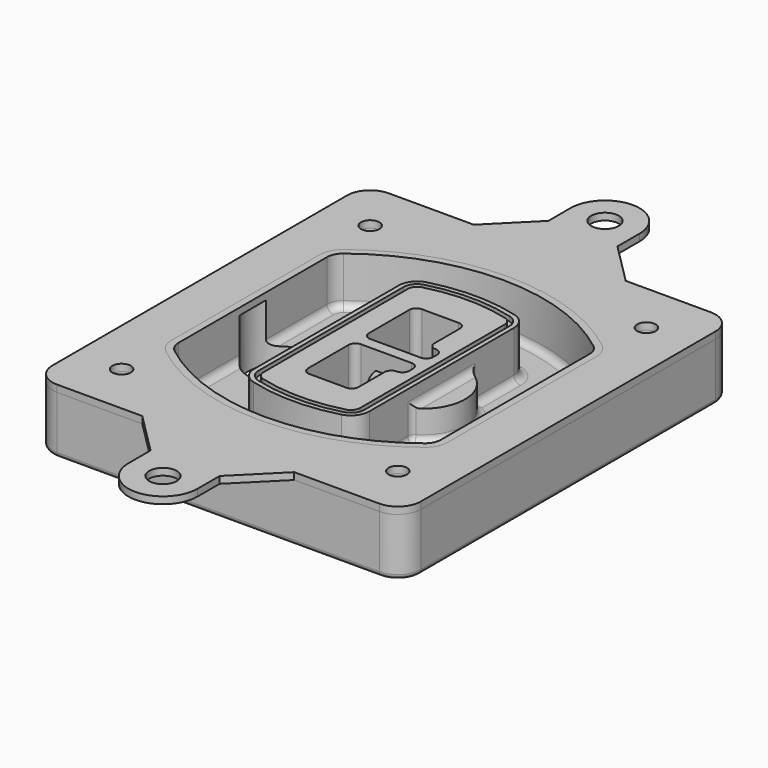
from build123d import *

# Parameters (mm, degrees)
F0_R      = 4
F1_DEPTH  = 25
F2_DEPTH  = 3
F3_DEPTH  = 18
F5_DEPTH  = 21
F6_DEPTH  = 2
F8_DEPTH  = 20
F9_DEPTH  = 16
F10_DEPTH = 25
F7_R      = 6
F7_R_2    = 4
F12_DEPTH = 6
F13_DEPTH = 9
F14_R     = 3
F15_R     = 2
F16_R     = 6
F16_R_2   = 4
F17_DEPTH = 3


with BuildPart() as f1:
    # F0 (on Top) → F1 (new body)
    with BuildSketch(Plane.XY):
        with BuildLine():
            ThreePointArc((-80, -80), (-77.0710678119, -87.0710678119), (-70, -90))
            Line((-70, -90), (70, -90))
            ThreePointArc((70, -90), (77.0710678119, -87.0710678119), (80, -80))
            Line((80, -80), (80, 80))
            ThreePointArc((80, 80), (77.0710678119, 87.0710678119), (70, 90))
            Line((70, 90), (-70, 90))
            ThreePointArc((-70, 90), (-77.0710678119, 87.0710678119), (-80, 80))
            Line((-80, 80), (-80, -80))
        make_face()
        with Locations((-60, -67.5)):
            Circle(F0_R, mode=Mode.SUBTRACT)
        with Locations((60, -67.5)):
            Circle(F0_R, mode=Mode.SUBTRACT)
        with Locations((-60, 67.5)):
            Circle(F0_R, mode=Mode.SUBTRACT)
        with BuildLine():
            ThreePointArc((-64, 40.2934422872), (-62.5820384798, 46.4328484224), (-58.6153846154, 51.3286200352))
            ThreePointArc((-58.6153846154, 51.3286200352), (0, 71.5), (58.6153846154, 51.3286200352))
            ThreePointArc((58.6153846154, 51.3286200352), (62.5820384798, 46.4328484224), (64, 40.2934422872))
            Line((64, 40.2934422872), (64, -40.2934422872))
            ThreePointArc((64, -40.2934422872), (62.5820384798, -46.4328484224), (58.6153846154, -51.3286200352))
            ThreePointArc((58.6153846154, -51.3286200352), (0, -71.5), (-58.6153846154, -51.3286200352))
            ThreePointArc((-58.6153846154, -51.3286200352), (-62.5820384798, -46.4328484224), (-64, -40.2934422872))
            Line((-64, -40.2934422872), (-64, 40.2934422872))
        make_face(mode=Mode.SUBTRACT)
        with Locations((60, 67.5)):
            Circle(F0_R, mode=Mode.SUBTRACT)
        with BuildLine():
            ThreePointArc((58.6153846154, 51.3286200352), (0, 71.5), (-58.6153846154, 51.3286200352))
            ThreePointArc((-58.6153846154, 51.3286200352), (-62.5820384798, 46.4328484224), (-64, 40.2934422872))
            Line((-64, 40.2934422872), (-64, -40.2934422872))
            ThreePointArc((-64, -40.2934422872), (-62.5820384798, -46.4328484224), (-58.6153846154, -51.3286200352))
            ThreePointArc((-58.6153846154, -51.3286200352), (0, -71.5), (58.6153846154, -51.3286200352))
            ThreePointArc((58.6153846154, -51.3286200352), (62.5820384798, -46.4328484224), (64, -40.2934422872))
            Line((64, -40.2934422872), (64, 40.2934422872))
            ThreePointArc((64, 40.2934422872), (62.5820384798, 46.4328484224), (58.6153846154, 51.3286200352))
        make_face()
        with BuildLine():
            Line((-60, -40.2934422872), (-60, 40.2934422872))
            ThreePointArc((-60, 40.2934422872), (-58.9871703427, 44.6787323838), (-56.1538461538, 48.1757121072))
            ThreePointArc((-56.1538461538, 48.1757121072), (0, 67.5), (56.1538461538, 48.1757121072))
            ThreePointArc((56.1538461538, 48.1757121072), (58.9871703427, 44.6787323838), (60, 40.2934422872))
            Line((60, 40.2934422872), (60, -40.2934422872))
            ThreePointArc((60, -40.2934422872), (58.9871703427, -44.6787323838), (56.1538461538, -48.1757121072))
            ThreePointArc((56.1538461538, -48.1757121072), (0, -67.5), (-56.1538461538, -48.1757121072))
            ThreePointArc((-56.1538461538, -48.1757121072), (-58.9871703427, -44.6787323838), (-60, -40.2934422872))
        make_face(mode=Mode.SUBTRACT)
        with BuildLine():
            ThreePointArc((-56.1538461538, 48.1757121072), (-58.9871703427, 44.6787323838), (-60, 40.2934422872))
            Line((-60, 40.2934422872), (-60, -40.2934422872))
            ThreePointArc((-60, -40.2934422872), (-58.9871703427, -44.6787323838), (-56.1538461538, -48.1757121072))
            ThreePointArc((-56.1538461538, -48.1757121072), (0, -67.5), (56.1538461538, -48.1757121072))
            ThreePointArc((56.1538461538, -48.1757121072), (58.9871703427, -44.6787323838), (60, -40.2934422872))
            Line((60, -40.2934422872), (60, 40.2934422872))
            ThreePointArc((60, 40.2934422872), (58.9871703427, 44.6787323838), (56.1538461538, 48.1757121072))
            ThreePointArc((56.1538461538, 48.1757121072), (0, 67.5), (-56.1538461538, 48.1757121072))
        make_face()
        with BuildLine():
            ThreePointArc((54.3076923077, 45.8110311612), (56.2910192399, 43.3631453548), (57, 40.2934422872))
            Line((57, 40.2934422872), (57, -40.2934422872))
            ThreePointArc((57, -40.2934422872), (56.2910192399, -43.3631453548), (54.3076923077, -45.8110311612))
            ThreePointArc((54.3076923077, -45.8110311612), (0, -64.5), (-54.3076923077, -45.8110311612))
            ThreePointArc((-54.3076923077, -45.8110311612), (-56.2910192399, -43.3631453548), (-57, -40.2934422872))
            Line((-57, -40.2934422872), (-57, 40.2934422872))
            ThreePointArc((-57, 40.2934422872), (-56.2910192399, 43.3631453548), (-54.3076923077, 45.8110311612))
            ThreePointArc((-54.3076923077, 45.8110311612), (0, 64.5), (54.3076923077, 45.8110311612))
        make_face(mode=Mode.SUBTRACT)
        with BuildLine():
            Line((57, -40.2934422872), (57, 40.2934422872))
            ThreePointArc((57, 40.2934422872), (56.2910192399, 43.3631453548), (54.3076923077, 45.8110311612))
            ThreePointArc((54.3076923077, 45.8110311612), (0, 64.5), (-54.3076923077, 45.8110311612))
            ThreePointArc((-54.3076923077, 45.8110311612), (-56.2910192399, 43.3631453548), (-57, 40.2934422872))
            Line((-57, 40.2934422872), (-57, -40.2934422872))
            ThreePointArc((-57, -40.2934422872), (-56.2910192399, -43.3631453548), (-54.3076923077, -45.8110311612))
            ThreePointArc((-54.3076923077, -45.8110311612), (0, -64.5), (54.3076923077, -45.8110311612))
            ThreePointArc((54.3076923077, -45.8110311612), (56.2910192399, -43.3631453548), (57, -40.2934422872))
        make_face()
    extrude(amount=-F1_DEPTH)

    # F0 (on Top) → F2 (join)
    with BuildSketch(Plane.XY):
        with BuildLine():
            ThreePointArc((-56.1538461538, 48.1757121072), (-58.9871703427, 44.6787323838), (-60, 40.2934422872))
            Line((-60, 40.2934422872), (-60, -40.2934422872))
            ThreePointArc((-60, -40.2934422872), (-58.9871703427, -44.6787323838), (-56.1538461538, -48.1757121072))
            ThreePointArc((-56.1538461538, -48.1757121072), (0, -67.5), (56.1538461538, -48.1757121072))
            ThreePointArc((56.1538461538, -48.1757121072), (58.9871703427, -44.6787323838), (60, -40.2934422872))
            Line((60, -40.2934422872), (60, 40.2934422872))
            ThreePointArc((60, 40.2934422872), (58.9871703427, 44.6787323838), (56.1538461538, 48.1757121072))
            ThreePointArc((56.1538461538, 48.1757121072), (0, 67.5), (-56.1538461538, 48.1757121072))
        make_face()
        with BuildLine():
            ThreePointArc((54.3076923077, 45.8110311612), (56.2910192399, 43.3631453548), (57, 40.2934422872))
            Line((57, 40.2934422872), (57, -40.2934422872))
            ThreePointArc((57, -40.2934422872), (56.2910192399, -43.3631453548), (54.3076923077, -45.8110311612))
            ThreePointArc((54.3076923077, -45.8110311612), (0, -64.5), (-54.3076923077, -45.8110311612))
            ThreePointArc((-54.3076923077, -45.8110311612), (-56.2910192399, -43.3631453548), (-57, -40.2934422872))
            Line((-57, -40.2934422872), (-57, 40.2934422872))
            ThreePointArc((-57, 40.2934422872), (-56.2910192399, 43.3631453548), (-54.3076923077, 45.8110311612))
            ThreePointArc((-54.3076923077, 45.8110311612), (0, 64.5), (54.3076923077, 45.8110311612))
        make_face(mode=Mode.SUBTRACT)
    extrude(amount=F2_DEPTH)

    # F0 (on Top) → F3 (cut)
    with BuildSketch(Plane.XY):
        with BuildLine():
            Line((57, -40.2934422872), (57, 40.2934422872))
            ThreePointArc((57, 40.2934422872), (56.2910192399, 43.3631453548), (54.3076923077, 45.8110311612))
            ThreePointArc((54.3076923077, 45.8110311612), (0, 64.5), (-54.3076923077, 45.8110311612))
            ThreePointArc((-54.3076923077, 45.8110311612), (-56.2910192399, 43.3631453548), (-57, 40.2934422872))
            Line((-57, 40.2934422872), (-57, -40.2934422872))
            ThreePointArc((-57, -40.2934422872), (-56.2910192399, -43.3631453548), (-54.3076923077, -45.8110311612))
            ThreePointArc((-54.3076923077, -45.8110311612), (0, -64.5), (54.3076923077, -45.8110311612))
            ThreePointArc((54.3076923077, -45.8110311612), (56.2910192399, -43.3631453548), (57, -40.2934422872))
        make_face()
    extrude(amount=-F3_DEPTH, mode=Mode.SUBTRACT)

    # F4 (on face) → F5 (join, through all)
    with BuildSketch(Plane.XY.offset(3)):
        with BuildLine():
            ThreePointArc((-25, -39.2465276821), (-23.3511545998, -44.1109737193), (-19.0842911877, -46.9702398883))
            ThreePointArc((-19.0842911877, -46.9702398883), (0, -49.5), (19.0842911877, -46.9702398883))
            ThreePointArc((19.0842911877, -46.9702398883), (23.3511545998, -44.1109737193), (25, -39.2465276821))
            Line((25, -39.2465276821), (25, 39.2465276821))
            ThreePointArc((25, 39.2465276821), (23.3511545998, 44.1109737193), (19.0842911877, 46.9702398883))
            ThreePointArc((19.0842911877, 46.9702398883), (0, 49.5), (-19.0842911877, 46.9702398883))
            ThreePointArc((-19.0842911877, 46.9702398883), (-23.3511545998, 44.1109737193), (-25, 39.2465276821))
            Line((-25, 39.2465276821), (-25, -39.2465276821))
        make_face()
        with BuildLine():
            ThreePointArc((18.5632183908, 45.0393118368), (21.7633659499, 42.89486221), (23, 39.2465276821))
            Line((23, 39.2465276821), (23, -39.2465276821))
            ThreePointArc((23, -39.2465276821), (21.7633659499, -42.89486221), (18.5632183908, -45.0393118368))
            ThreePointArc((18.5632183908, -45.0393118368), (0, -47.5), (-18.5632183908, -45.0393118368))
            ThreePointArc((-18.5632183908, -45.0393118368), (-21.7633659499, -42.89486221), (-23, -39.2465276821))
            Line((-23, -39.2465276821), (-23, 39.2465276821))
            ThreePointArc((-23, 39.2465276821), (-21.7633659499, 42.89486221), (-18.5632183908, 45.0393118368))
            ThreePointArc((-18.5632183908, 45.0393118368), (0, 47.5), (18.5632183908, 45.0393118368))
        make_face(mode=Mode.SUBTRACT)
        with BuildLine():
            Line((23, -39.2465276821), (23, 39.2465276821))
            ThreePointArc((23, 39.2465276821), (21.7633659499, 42.89486221), (18.5632183908, 45.0393118368))
            ThreePointArc((18.5632183908, 45.0393118368), (0, 47.5), (-18.5632183908, 45.0393118368))
            ThreePointArc((-18.5632183908, 45.0393118368), (-21.7633659499, 42.89486221), (-23, 39.2465276821))
            Line((-23, 39.2465276821), (-23, -39.2465276821))
            ThreePointArc((-23, -39.2465276821), (-21.7633659499, -42.89486221), (-18.5632183908, -45.0393118368))
            ThreePointArc((-18.5632183908, -45.0393118368), (0, -47.5), (18.5632183908, -45.0393118368))
            ThreePointArc((18.5632183908, -45.0393118368), (21.7633659499, -42.89486221), (23, -39.2465276821))
        make_face()
        with BuildLine():
            ThreePointArc((18.0421455939, 43.1083837852), (20.1755772999, 41.6787507007), (21, 39.2465276821))
            Line((21, 39.2465276821), (21, -39.2465276821))
            ThreePointArc((21, -39.2465276821), (20.1755772999, -41.6787507007), (18.0421455939, -43.1083837852))
            ThreePointArc((18.0421455939, -43.1083837852), (0, -45.5), (-18.0421455939, -43.1083837852))
            ThreePointArc((-18.0421455939, -43.1083837852), (-20.1755772999, -41.6787507007), (-21, -39.2465276821))
            Line((-21, -39.2465276821), (-21, 39.2465276821))
            ThreePointArc((-21, 39.2465276821), (-20.1755772999, 41.6787507007), (-18.0421455939, 43.1083837852))
            ThreePointArc((-18.0421455939, 43.1083837852), (0, 45.5), (18.0421455939, 43.1083837852))
        make_face(mode=Mode.SUBTRACT)
        with BuildLine():
            Line((21, -39.2465276821), (21, 39.2465276821))
            ThreePointArc((21, 39.2465276821), (20.1755772999, 41.6787507007), (18.0421455939, 43.1083837852))
            ThreePointArc((18.0421455939, 43.1083837852), (0, 45.5), (-18.0421455939, 43.1083837852))
            ThreePointArc((-18.0421455939, 43.1083837852), (-20.1755772999, 41.6787507007), (-21, 39.2465276821))
            Line((-21, 39.2465276821), (-21, -39.2465276821))
            ThreePointArc((-21, -39.2465276821), (-20.1755772999, -41.6787507007), (-18.0421455939, -43.1083837852))
            ThreePointArc((-18.0421455939, -43.1083837852), (0, -45.5), (18.0421455939, -43.1083837852))
            ThreePointArc((18.0421455939, -43.1083837852), (20.1755772999, -41.6787507007), (21, -39.2465276821))
        make_face()
        with BuildLine():
            Line((-8, -2.5), (14, -2.5))
            ThreePointArc((14, -2.5), (16.1213203436, -3.3786796564), (17, -5.5))
            Line((17, -5.5), (17, -7.5))
            ThreePointArc((17, -7.5), (16.1213203436, -9.6213203436), (14, -10.5))
            ThreePointArc((14, -10.5), (11.8786796564, -11.3786796564), (11, -13.5))
            Line((11, -13.5), (11, -27.5))
            ThreePointArc((11, -27.5), (10.1213203436, -29.6213203436), (8, -30.5))
            Line((8, -30.5), (-8, -30.5))
            ThreePointArc((-8, -30.5), (-10.1213203436, -29.6213203436), (-11, -27.5))
            Line((-11, -27.5), (-11, -5.5))
            ThreePointArc((-11, -5.5), (-10.1213203436, -3.3786796564), (-8, -2.5))
        make_face(mode=Mode.SUBTRACT)
        with BuildLine():
            ThreePointArc((-8, 2.5), (-10.1213203436, 3.3786796564), (-11, 5.5))
            Line((-11, 5.5), (-11, 27.5))
            ThreePointArc((-11, 27.5), (-10.1213203436, 29.6213203436), (-8, 30.5))
            Line((-8, 30.5), (8, 30.5))
            ThreePointArc((8, 30.5), (10.1213203436, 29.6213203436), (11, 27.5))
            Line((11, 27.5), (11, 13.5))
            ThreePointArc((11, 13.5), (11.8786796564, 11.3786796564), (14, 10.5))
            ThreePointArc((14, 10.5), (16.1213203436, 9.6213203436), (17, 7.5))
            Line((17, 7.5), (17, 5.5))
            ThreePointArc((17, 5.5), (16.1213203436, 3.3786796564), (14, 2.5))
            Line((14, 2.5), (-8, 2.5))
        make_face(mode=Mode.SUBTRACT)
    extrude(amount=-F5_DEPTH)

    # F4 (on face) → F6 (cut)
    with BuildSketch(Plane.XY.offset(3)):
        with BuildLine():
            Line((23, -39.2465276821), (23, 39.2465276821))
            ThreePointArc((23, 39.2465276821), (21.7633659499, 42.89486221), (18.5632183908, 45.0393118368))
            ThreePointArc((18.5632183908, 45.0393118368), (0, 47.5), (-18.5632183908, 45.0393118368))
            ThreePointArc((-18.5632183908, 45.0393118368), (-21.7633659499, 42.89486221), (-23, 39.2465276821))
            Line((-23, 39.2465276821), (-23, -39.2465276821))
            ThreePointArc((-23, -39.2465276821), (-21.7633659499, -42.89486221), (-18.5632183908, -45.0393118368))
            ThreePointArc((-18.5632183908, -45.0393118368), (0, -47.5), (18.5632183908, -45.0393118368))
            ThreePointArc((18.5632183908, -45.0393118368), (21.7633659499, -42.89486221), (23, -39.2465276821))
        make_face()
        with BuildLine():
            ThreePointArc((18.0421455939, 43.1083837852), (20.1755772999, 41.6787507007), (21, 39.2465276821))
            Line((21, 39.2465276821), (21, -39.2465276821))
            ThreePointArc((21, -39.2465276821), (20.1755772999, -41.6787507007), (18.0421455939, -43.1083837852))
            ThreePointArc((18.0421455939, -43.1083837852), (0, -45.5), (-18.0421455939, -43.1083837852))
            ThreePointArc((-18.0421455939, -43.1083837852), (-20.1755772999, -41.6787507007), (-21, -39.2465276821))
            Line((-21, -39.2465276821), (-21, 39.2465276821))
            ThreePointArc((-21, 39.2465276821), (-20.1755772999, 41.6787507007), (-18.0421455939, 43.1083837852))
            ThreePointArc((-18.0421455939, 43.1083837852), (0, 45.5), (18.0421455939, 43.1083837852))
        make_face(mode=Mode.SUBTRACT)
    extrude(amount=-F6_DEPTH, mode=Mode.SUBTRACT)

    # F7 (on face) → F8 (join)
    with BuildSketch(Plane(origin=(0, 0, -25), x_dir=(1, 0, 0), z_dir=(0, 0, -1))):
        with BuildLine():
            ThreePointArc((3.28842436, 0), (16.7567035675, 13.4682792075), (30.224982775, 0))
            Line((30.224982775, 0), (35.224982775, 0))
            ThreePointArc((35.224982775, 0), (16.7567035675, 18.4682792075), (-1.71157564, 0))
            Line((-1.71157564, 0), (3.28842436, 0))
        make_face()
        with BuildLine():
            Line((3.28842436, 0), (30.224982775, 0))
            ThreePointArc((30.224982775, 0), (16.7567035675, 13.4682792075), (3.28842436, 0))
        make_face()
        with BuildLine():
            ThreePointArc((3.28842436, 0), (16.7567035675, -13.4682792075), (30.224982775, 0))
            Line((30.224982775, 0), (3.28842436, 0))
        make_face()
        with BuildLine():
            Line((35.224982775, 0), (30.224982775, 0))
            ThreePointArc((30.224982775, 0), (16.7567035675, -13.4682792075), (3.28842436, 0))
            Line((3.28842436, 0), (-1.71157564, 0))
            ThreePointArc((-1.71157564, 0), (16.7567035675, -18.4682792075), (35.224982775, 0))
        make_face()
    extrude(amount=-F8_DEPTH)

    # F7 (on face) → F9 (cut)
    with BuildSketch(Plane(origin=(0, 0, -25), x_dir=(1, 0, 0), z_dir=(0, 0, -1))):
        with BuildLine():
            Line((3.28842436, 0), (30.224982775, 0))
            ThreePointArc((30.224982775, 0), (16.7567035675, 13.4682792075), (3.28842436, 0))
        make_face()
        with BuildLine():
            ThreePointArc((3.28842436, 0), (16.7567035675, -13.4682792075), (30.224982775, 0))
            Line((30.224982775, 0), (3.28842436, 0))
        make_face()
    extrude(amount=-F9_DEPTH, mode=Mode.SUBTRACT)

    # F7 (on face) → F10 (cut)
    with BuildSketch(Plane(origin=(0, 0, -25), x_dir=(1, 0, 0), z_dir=(0, 0, -1))):
        with BuildLine():
            Line((-59.0318229325, 0), (-32.0952645175, 0))
            ThreePointArc((-32.0952645175, 0), (-45.563543725, 13.4682792075), (-59.0318229325, 0))
        make_face()
        with BuildLine():
            ThreePointArc((-59.0318229325, 0), (-45.563543725, -13.4682792075), (-32.0952645175, 0))
            Line((-32.0952645175, 0), (-59.0318229325, 0))
        make_face()
    extrude(amount=-F10_DEPTH, mode=Mode.SUBTRACT)

    # F7 (on face) → F12 (cut)
    with BuildSketch(Plane(origin=(0, 0, -25), x_dir=(1, 0, 0), z_dir=(0, 0, -1))):
        with Locations((60, -67.5)):
            Circle(F7_R)
        with Locations((60, -67.5)):
            Circle(F7_R_2, mode=Mode.SUBTRACT)
        with Locations((60, -67.5)):
            Circle(F7_R)
        with Locations((60, -67.5)):
            Circle(F7_R_2, mode=Mode.SUBTRACT)
        with Locations((-60, -67.5)):
            Circle(F7_R)
        with Locations((-60, -67.5)):
            Circle(F7_R_2, mode=Mode.SUBTRACT)
        with Locations((-60, -67.5)):
            Circle(F7_R)
        with Locations((-60, -67.5)):
            Circle(F7_R_2, mode=Mode.SUBTRACT)
        with Locations((-60, 67.5)):
            Circle(F7_R)
        with Locations((-60, 67.5)):
            Circle(F7_R_2, mode=Mode.SUBTRACT)
        with Locations((-60, 67.5)):
            Circle(F7_R)
        with Locations((-60, 67.5)):
            Circle(F7_R_2, mode=Mode.SUBTRACT)
        with Locations((60, 67.5)):
            Circle(F7_R)
        with Locations((60, 67.5)):
            Circle(F7_R_2, mode=Mode.SUBTRACT)
        with Locations((60, 67.5)):
            Circle(F7_R)
        with Locations((60, 67.5)):
            Circle(F7_R_2, mode=Mode.SUBTRACT)
    extrude(amount=-F12_DEPTH, mode=Mode.SUBTRACT)

    # F11 (on face) → F13 (cut, through all)
    with BuildSketch(Plane(origin=(0, 0, -9), x_dir=(1, 0, 0), z_dir=(0, 0, -1))):
        with BuildLine():
            Line((11, 13.5), (11, 17.5481537753))
            ThreePointArc((11, 17.5481537753), (2.5696536419, 11.8239143813), (-1.5415842455, 2.5))
            Line((-1.5415842455, 2.5), (3.5224848595, 2.5))
            ThreePointArc((3.5224848595, 2.5), (6.1857188154, 8.3455872281), (11.2536447004, 12.2927168648))
            ThreePointArc((11.2536447004, 12.2927168648), (11.0640958889, 12.8831798879), (11, 13.5))
        make_face()
        with BuildLine():
            ThreePointArc((11.2536447004, -12.2927168648), (6.1857188154, -8.3455872281), (3.5224848595, -2.5))
            Line((3.5224848595, -2.5), (-1.5415842455, -2.5))
            ThreePointArc((-1.5415842455, -2.5), (2.5696536419, -11.8239143813), (11, -17.5481537753))
            Line((11, -17.5481537753), (11, -13.5))
            ThreePointArc((11, -13.5), (11.0640958889, -12.8831798879), (11.2536447004, -12.2927168648))
        make_face()
        with BuildLine():
            ThreePointArc((11.2536447004, 12.2927168648), (6.1857188154, 8.3455872281), (3.5224848595, 2.5))
            Line((3.5224848595, 2.5), (14, 2.5))
            ThreePointArc((14, 2.5), (16.1213203436, 3.3786796564), (17, 5.5))
            Line((17, 5.5), (17, 7.5))
            ThreePointArc((17, 7.5), (16.1213203436, 9.6213203436), (14, 10.5))
            ThreePointArc((14, 10.5), (12.3601599782, 10.9878446101), (11.2536447004, 12.2927168648))
        make_face()
        with BuildLine():
            Line((14, -2.5), (3.5224848595, -2.5))
            ThreePointArc((3.5224848595, -2.5), (6.1857188154, -8.3455872281), (11.2536447004, -12.2927168648))
            ThreePointArc((11.2536447004, -12.2927168648), (12.3601599782, -10.9878446101), (14, -10.5))
            ThreePointArc((14, -10.5), (16.1213203436, -9.6213203436), (17, -7.5))
            Line((17, -7.5), (17, -5.5))
            ThreePointArc((17, -5.5), (16.1213203436, -3.3786796564), (14, -2.5))
        make_face()
    extrude(amount=F13_DEPTH, mode=Mode.SUBTRACT)

    # F14
    f14_edges = [f1.edges().sort_by_distance(p)[0] for p in [
        (-57, -23.703476, -18),
        (-57, 23.703476, -18),
        (25, 0, -5),
        (25, 16.526506, -11.5),
        (25, -16.526506, -11.5),
        (25, -27.886517, -18),
        (35.224983, 0, -18),
    ]]
    fillet(f14_edges, radius=F14_R)

    # F15
    f15_edges = [f1.edges().sort_by_distance(p)[0] for p in [
        (0, -90, -25),
    ]]
    fillet(f15_edges, radius=F15_R)


with BuildPart() as f17:
    # F16 (on face) → F17 (new body, through all)
    with BuildSketch(Plane.XY):
        with BuildLine():
            Line((-15, 108), (-33, 90))
            Line((-33, 90), (33, 90))
            Line((33, 90), (15, 108))
            Line((15, 108), (15, 120))
            ThreePointArc((15, 120), (0, 135), (-15, 120))
            Line((-15, 120), (-15, 108))
        make_face()
        with Locations((0, 120)):
            Circle(F16_R, mode=Mode.SUBTRACT)
        with BuildLine():
            Line((33, -90), (-33, -90))
            Line((-33, -90), (-15, -108))
            Line((-15, -108), (-15, -120))
            ThreePointArc((-15, -120), (0, -135), (15, -120))
            Line((15, -120), (15, -108))
            Line((15, -108), (33, -90))
        make_face()
        with Locations((0, -120)):
            Circle(F16_R, mode=Mode.SUBTRACT)
        with BuildLine():
            Line((33, 90), (-33, 90))
            Line((-33, 90), (-70, 90))
            ThreePointArc((-70, 90), (-77.0710678119, 87.0710678119), (-80, 80))
            Line((-80, 80), (-80, -80))
            ThreePointArc((-80, -80), (-77.0710678119, -87.0710678119), (-70, -90))
            Line((-70, -90), (-33, -90))
            Line((-33, -90), (33, -90))
            Line((33, -90), (70, -90))
            ThreePointArc((70, -90), (77.0710678119, -87.0710678119), (80, -80))
            Line((80, -80), (80, 80))
            ThreePointArc((80, 80), (77.0710678119, 87.0710678119), (70, 90))
            Line((70, 90), (33, 90))
        make_face()
        with Locations((-60, -67.5)):
            Circle(F16_R_2, mode=Mode.SUBTRACT)
        with Locations((60, -67.5)):
            Circle(F16_R_2, mode=Mode.SUBTRACT)
        with Locations((-60, 67.5)):
            Circle(F16_R_2, mode=Mode.SUBTRACT)
        with BuildLine():
            ThreePointArc((-60, 40.2934422872), (-58.9871703427, 44.6787323838), (-56.1538461538, 48.1757121072))
            ThreePointArc((-56.1538461538, 48.1757121072), (0, 67.5), (56.1538461538, 48.1757121072))
            ThreePointArc((56.1538461538, 48.1757121072), (58.9871703427, 44.6787323838), (60, 40.2934422872))
            Line((60, 40.2934422872), (60, -40.2934422872))
            ThreePointArc((60, -40.2934422872), (58.9871703427, -44.6787323838), (56.1538461538, -48.1757121072))
            ThreePointArc((56.1538461538, -48.1757121072), (0, -67.5), (-56.1538461538, -48.1757121072))
            ThreePointArc((-56.1538461538, -48.1757121072), (-58.9871703427, -44.6787323838), (-60, -40.2934422872))
            Line((-60, -40.2934422872), (-60, 40.2934422872))
        make_face(mode=Mode.SUBTRACT)
        with Locations((60, 67.5)):
            Circle(F16_R_2, mode=Mode.SUBTRACT)
    extrude(amount=F17_DEPTH)


solid = Compound([f1.part, f17.part])
